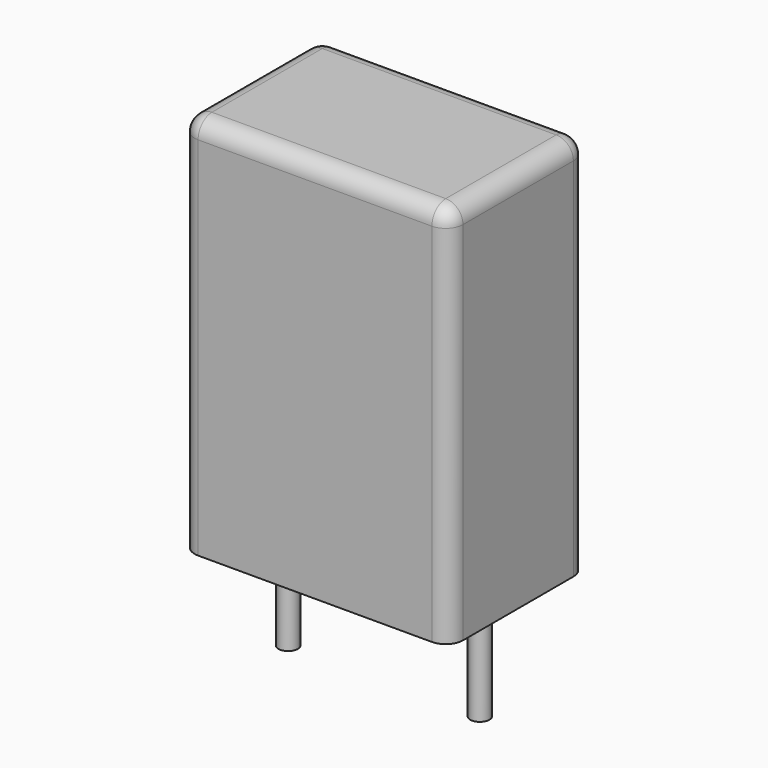
from build123d import *

# Parameters (mm, degrees)
SKETCH_W     = 7
SKETCH_H     = 4.5
PAD_DEPTH    = 10
FILLET_R     = 0.45
SKETCH001_R  = 0.25
PAD001_DEPTH = 3.2


with BuildPart() as fillet_body:
    # Sketch → Pad (new body)
    with BuildSketch(Plane.XY.offset(0.1)):
        with Locations((2.5, 0)):
            Rectangle(SKETCH_W, SKETCH_H)
    extrude(amount=PAD_DEPTH)

    # Fillet
    fillet_edges = [fillet_body.edges().sort_by_distance(p)[0] for p in [
        (-1, 0, 10.1),
        (-1, -2.25, 5.1),
        (2.5, -2.25, 10.1),
        (6, -2.25, 5.1),
        (6, 0, 10.1),
        (6, 2.25, 5.1),
        (2.5, 2.25, 10.1),
        (-1, 2.25, 5.1),
    ]]
    fillet(fillet_edges, radius=FILLET_R)


with BuildPart() as pad001:
    # Sketch001 → Pad001 (new body)
    with BuildSketch(Plane.XY.offset(0.5)):
        Circle(SKETCH001_R)
        with Locations((5, 0)):
            Circle(SKETCH001_R)
    extrude(amount=-PAD001_DEPTH)


solid = Compound([fillet_body.part, pad001.part])
